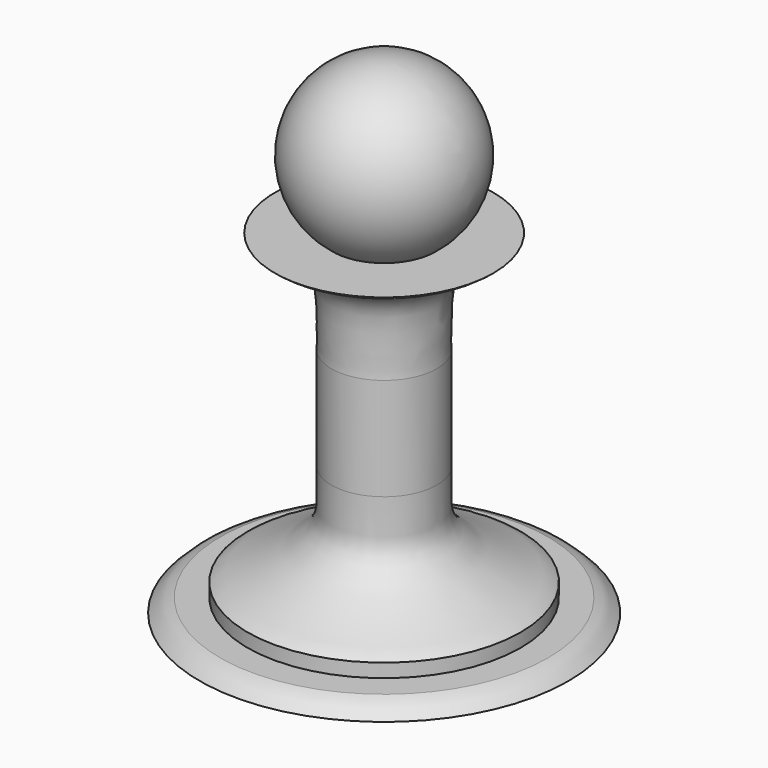
from build123d import *


with BuildPart() as f1:
    # F0 (on Front) → F1 (revolve)
    with BuildSketch(Plane.XZ):
        with BuildLine():
            Line((16.544755321, 14.7213940228), (7.7553540567, 14.7213940228))
            ThreePointArc((7.7553540567, 14.7213940228), (12.2622914401, 29.1492965785), (0, 37.987456193))
            Line((0, 37.987456193), (0, -35.9469191478))
            Line((0, -35.9469191478), (27.9192746042, -35.9469191478))
            add(Edge.make_bspline(
                [(24.8171329815, -33.8788247327), (25.2817774977, -33.9866171881), (26.4576126115, -34.4273513215), (27.3490418853, -35.3535429851), (27.9192746042, -35.9469191478)],
                knots=[0, 0, 0, 0, 0.4637557498, 1, 1, 1, 1], degree=3))
            Line((24.8171329815, -33.8788247327), (20.6809441513, -33.8788247327))
            add(Edge.make_bspline(
                [(20.6809441513, -31.8107303176), (20.6809441513, -32.5000951226), (20.6809441513, -33.1894599277), (20.6809441513, -33.8788247327)],
                knots=[0, 0, 0, 0, 2.0680944151, 2.0680944151, 2.0680944151, 2.0680944151], degree=3))
            add(Edge.make_bspline(
                [(8, -16.3000222041), (7.9977722909, -16.7923153646), (7.9946943128, -17.8631219311), (8.0246592199, -19.6078987434), (7.8913115745, -21.7470459228), (8.4915408177, -24.4577314765), (11.3148067029, -26.9545048012), (13.9942338135, -28.500089739), (17.6533239083, -30.447628257), (19.9133459633, -31.142331248), (20.6809441513, -31.8107303176)],
                knots=[0, 0, 0, 0, 0.0941184309, 0.194152073, 0.3045862581, 0.4285337011, 0.5724853256, 0.7081202251, 0.8623091063, 1, 1, 1, 1], degree=3))
            Line((8, -16.3000222041), (8, -0.7893140907))
            add(Edge.make_bspline(
                [(16.544755321, 14.7213940228), (15.8307965364, 14.0439331122), (13.1355196793, 13.0474120225), (11.083897762, 11.5700801673), (9.3381557014, 10.5647349317), (8.1688437996, 8.197499404), (7.9732925765, 4.7524845323), (8.0519455063, 2.2457423916), (7.8871130334, 0.160856877), (8, -0.7893140907)],
                knots=[0, 0, 0, 0, 0.1652110334, 0.3040301909, 0.4210892592, 0.5566778611, 0.7147557211, 0.8524356609, 1, 1, 1, 1], degree=3))
        make_face()
    revolve(axis=Axis((0, 0, 1.0202685226), (0, 0, -1)))


solid = f1.part
